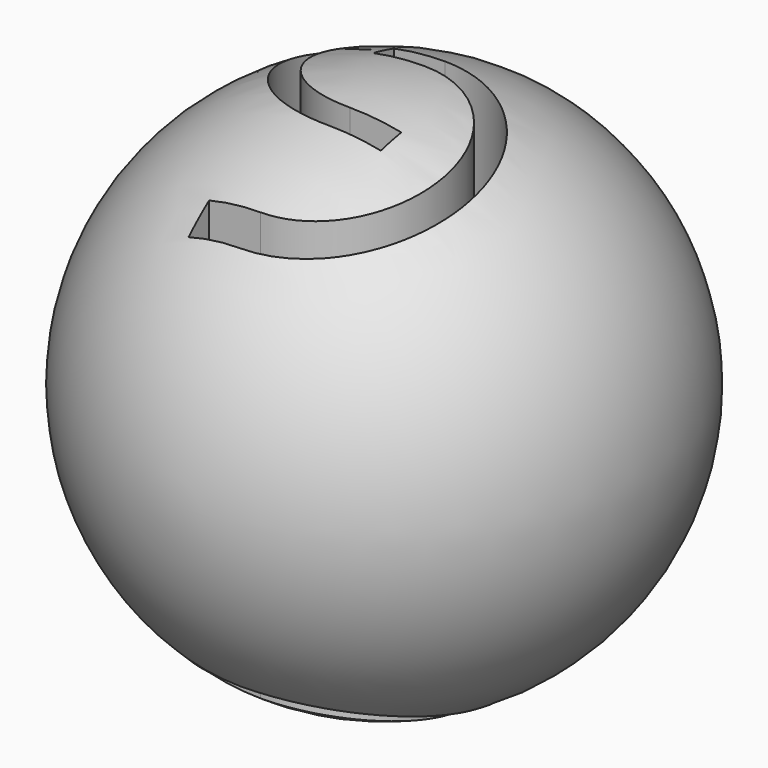
from build123d import *

# Parameters (mm, degrees)
F2_DEPTH      = 25.4
F2_DEPTH_BACK = 25.4
F3_DEPTH      = 25.4
F3_DEPTH_BACK = 25.4


with BuildPart() as f1:
    # F0 (on Top) → F1 (revolve)
    with BuildSketch(Plane.XY):
        with BuildLine():
            ThreePointArc((1.4741766444, 15.6340406001), (1.7521250826, 17.6942663006), (0, 18.8131241852))
            Line((0, 18.8131241852), (0, 18.009214877))
            ThreePointArc((0, 18.009214877), (0.7972124014, 17.6789986882), (1.1274285902, 16.8817862868))
            ThreePointArc((1.1274285902, 16.8817862868), (0.7972124014, 16.0845738854), (0, 15.7543576967))
            Line((0, 15.7543576967), (0, 12.7899108205))
            Line((0, 12.7899108205), (2, 12.7899108205))
            Line((2, 12.7899108205), (2, 11.7899108205))
            Line((2, 11.7899108205), (0, 11.7899108205))
            Line((0, 11.7899108205), (0, 8.4259435534))
            ThreePointArc((0, 8.4259435534), (5, 3.4259435534), (0, -1.5740564466))
            Line((0, -1.5740564466), (0, -4.8317939343))
            ThreePointArc((0, -4.8317939343), (10.2594295647, 4.7152185858), (1.4741766444, 15.6340406001))
        make_face()
    revolve(axis=Axis((0, 32.3345517981, 0), (0, -1, 0)))

    # F0 (on Top) → F2 (cut, two sides)
    with BuildSketch(Plane.XY) as f2_sk:
        with BuildLine():
            Line((2, 12.7899108205), (0, 12.7899108205))
            ThreePointArc((0, 12.7899108205), (-5, 7.7899108205), (0, 2.7899108205))
            Line((0, 2.7899108205), (2, 2.7899108205))
            Line((2, 2.7899108205), (2, 3.7899108205))
            Line((2, 3.7899108205), (0, 3.7899108205))
            ThreePointArc((0, 3.7899108205), (-4, 7.7899108205), (0, 11.7899108205))
            Line((0, 11.7899108205), (2, 11.7899108205))
            Line((2, 11.7899108205), (2, 12.7899108205))
        make_face()
        with BuildLine():
            Line((-2, -1.5740564466), (0, -1.5740564466))
            ThreePointArc((0, -1.5740564466), (5, 3.4259435534), (0, 8.4259435534))
            Line((0, 8.4259435534), (-2, 8.4259435534))
            Line((-2, 8.4259435534), (-2, 7.4259435534))
            Line((-2, 7.4259435534), (0, 7.4259435534))
            ThreePointArc((0, 7.4259435534), (4, 3.4259435534), (0, -0.5740564466))
            Line((0, -0.5740564466), (-2, -0.5740564466))
            Line((-2, -0.5740564466), (-2, -1.5740564466))
        make_face()
    extrude(amount=-F2_DEPTH, mode=Mode.SUBTRACT)
    extrude(f2_sk.sketch, amount=F2_DEPTH_BACK, mode=Mode.SUBTRACT)

    # F0 (on Top) → F3 (cut, two sides)
    with BuildSketch(Plane.XY) as f3_sk:
        with BuildLine():
            Line((0, 15.7543576967), (0, 18.009214877))
            ThreePointArc((0, 18.009214877), (-1.1274285902, 16.8817862868), (0, 15.7543576967))
        make_face()
        with BuildLine():
            ThreePointArc((1.1274285902, 16.8817862868), (0.7972124014, 17.6789986882), (0, 18.009214877))
            Line((0, 18.009214877), (0, 15.7543576967))
            ThreePointArc((0, 15.7543576967), (0.7972124014, 16.0845738854), (1.1274285902, 16.8817862868))
        make_face()
    extrude(amount=-F3_DEPTH, mode=Mode.SUBTRACT)
    extrude(f3_sk.sketch, amount=F3_DEPTH_BACK, mode=Mode.SUBTRACT)


solid = f1.part
